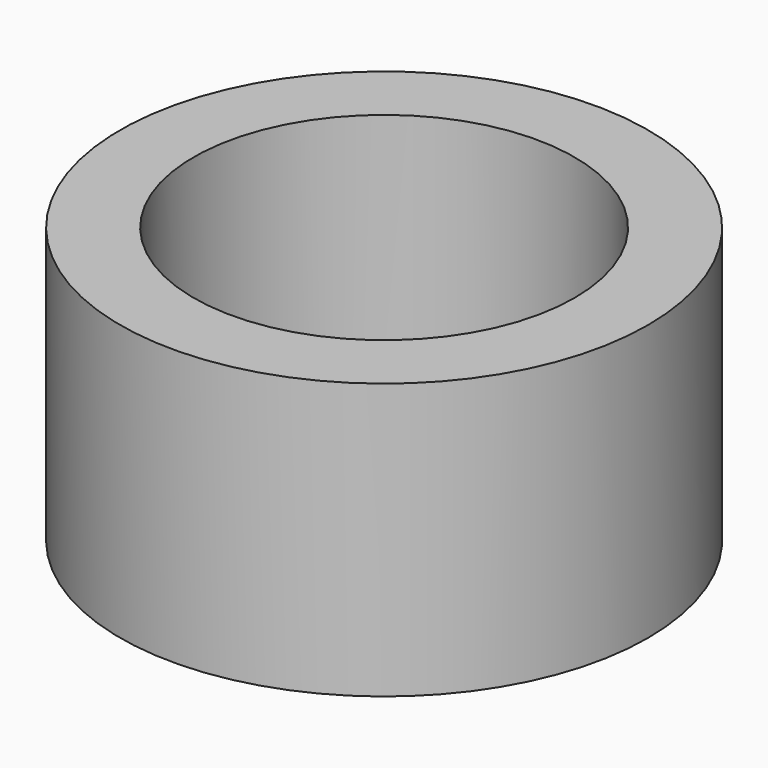
from build123d import *

# Parameters (mm, degrees)
SKETCH_R   = 5.75
SKETCH_R_2 = 4.15
PAD_DEPTH  = 6


with BuildPart() as part:
    # Sketch → Pad (new body)
    with BuildSketch(Plane.XY):
        Circle(SKETCH_R)
        Circle(SKETCH_R_2, mode=Mode.SUBTRACT)
    extrude(amount=PAD_DEPTH)


solid = part.part
